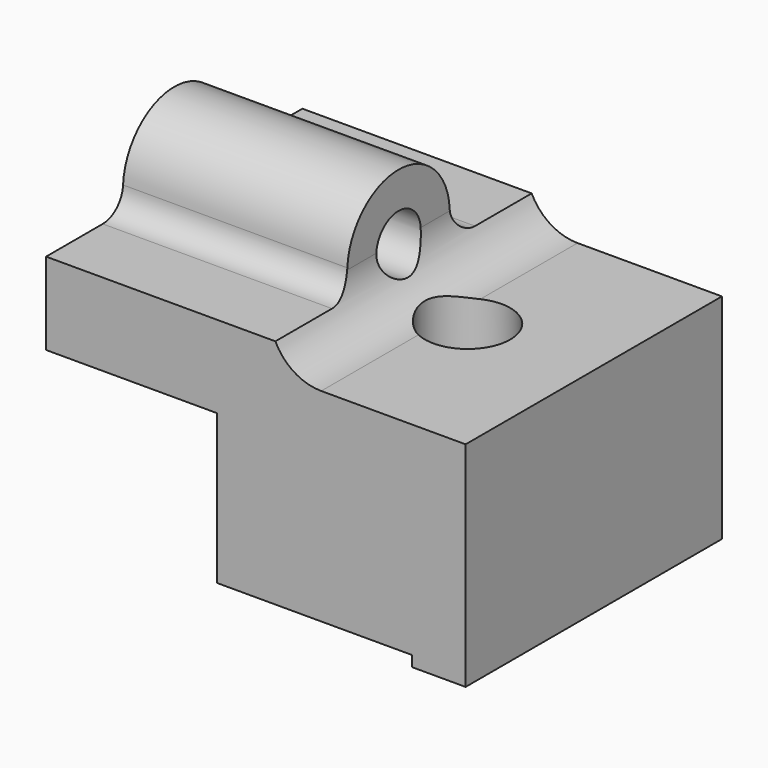
from build123d import *

# Parameters (mm, degrees)
PAD003_DEPTH         = 30
POCKET001_DEPTH      = 21.001
POCKET001_DEPTH_BACK = 18.286158
SKETCH010_R          = 2.6
POCKET002_DEPTH      = 21.001
POCKET002_DEPTH_BACK = 18.286158
SKETCH011_R          = 4
POCKET003_DEPTH      = 5
POCKET003_DEPTH_BACK = 100


with BuildPart() as part:
    # Sketch008 → Pad003 (new body)
    with BuildSketch(Plane.XZ):
        with BuildLine():
            Line((-16, 15), (0, 15))
            Line((0, 15), (0, 1))
            Line((0, 1), (18.285158, 1))
            Line((18.285158, 1), (18.285158, 0))
            Line((18.285158, 0), (23.285158, 0))
            Line((23.285158, 0), (23.285158, 20))
            Line((23.285158, 20), (9.7625, 20))
            ThreePointArc((5, 24.7625), (6.394904, 21.394904), (9.7625, 20))
            Line((5, 24.7625), (5, 30.6))
            Line((5, 30.6), (-16, 30.6))
            Line((-16, 30.6), (-16, 15))
        make_face()
    extrude(amount=PAD003_DEPTH)

    # Sketch009 (on Face1 of Pad003) → Pocket001 (cut, two sides)
    with BuildSketch(Plane(origin=(5, 0, 0), x_dir=(0, 0, 1), z_dir=(1, 0, 0))) as pocket001_sk:
        with BuildLine():
            ThreePointArc((24.943511, 9.009841), (30.6, 15), (24.943511, 20.990159))
            ThreePointArc((22.698592, 23.367503), (23.348515, 21.732615), (24.943511, 20.990159))
            Line((22.698592, 23.367503), (22.698592, 35))
            Line((22.698592, 35), (35.6, 35))
            Line((35.6, 35), (35.6, -5))
            Line((35.6, -5), (22.698592, -5))
            Line((22.698592, -5), (22.698592, 6.632497))
            ThreePointArc((24.943511, 9.009841), (23.348515, 8.267384), (22.698592, 6.632497))
        make_face()
    extrude(amount=-POCKET001_DEPTH, mode=Mode.SUBTRACT)
    extrude(pocket001_sk.sketch, amount=POCKET001_DEPTH_BACK, mode=Mode.SUBTRACT)

    # Sketch010 (on Face1 of Pocket001) → Pocket002 (cut, two sides)
    with BuildSketch(Plane(origin=(5, 0, 0), x_dir=(0, 0, 1), z_dir=(1, 0, 0))) as pocket002_sk:
        with Locations((24.6, 15)):
            Circle(SKETCH010_R)
    extrude(amount=-POCKET002_DEPTH, mode=Mode.SUBTRACT)
    extrude(pocket002_sk.sketch, amount=POCKET002_DEPTH_BACK, mode=Mode.SUBTRACT)

    # Sketch011 (on Face12 of Pocket002) → Pocket003 (cut, two sides)
    with BuildSketch(Plane(origin=(0, 0, 20), x_dir=(-1, 0, 0), z_dir=(0, 0, 1))) as pocket003_sk:
        with Locations((-11.47045, 15)):
            Circle(SKETCH011_R)
    extrude(amount=-POCKET003_DEPTH, mode=Mode.SUBTRACT)
    extrude(pocket003_sk.sketch, amount=POCKET003_DEPTH_BACK, mode=Mode.SUBTRACT)


solid = part.part
